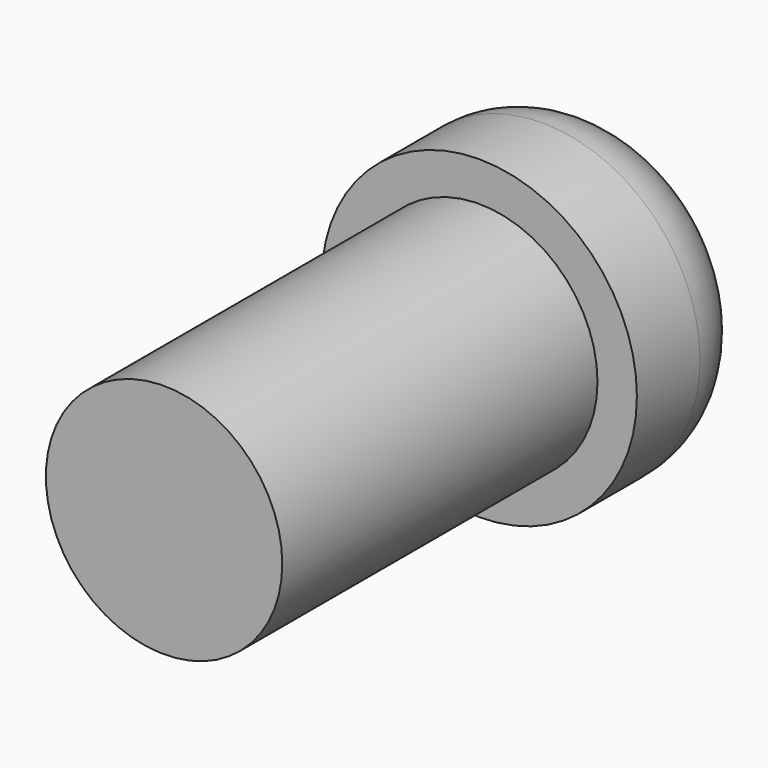
from build123d import *

# Parameters (mm, degrees)
F0_R     = 3
F1_DEPTH = 10
F0_R_2   = 4
F2_DEPTH = 4
F3_R     = 2


with BuildPart() as f1:
    # F0 (on Front) → F1 (new body)
    with BuildSketch(Plane.XZ):
        Circle(F0_R)
    extrude(amount=F1_DEPTH)

    # F0 (on Front) → F2 (join)
    with BuildSketch(Plane.XZ):
        Circle(F0_R_2)
        Circle(F0_R, mode=Mode.SUBTRACT)
        Circle(F0_R)
    extrude(amount=-F2_DEPTH)

    # F3
    f3_edges = [f1.edges().sort_by_distance(p)[0] for p in [
        (-4, 4, 0),
    ]]
    fillet(f3_edges, radius=F3_R)


solid = f1.part
